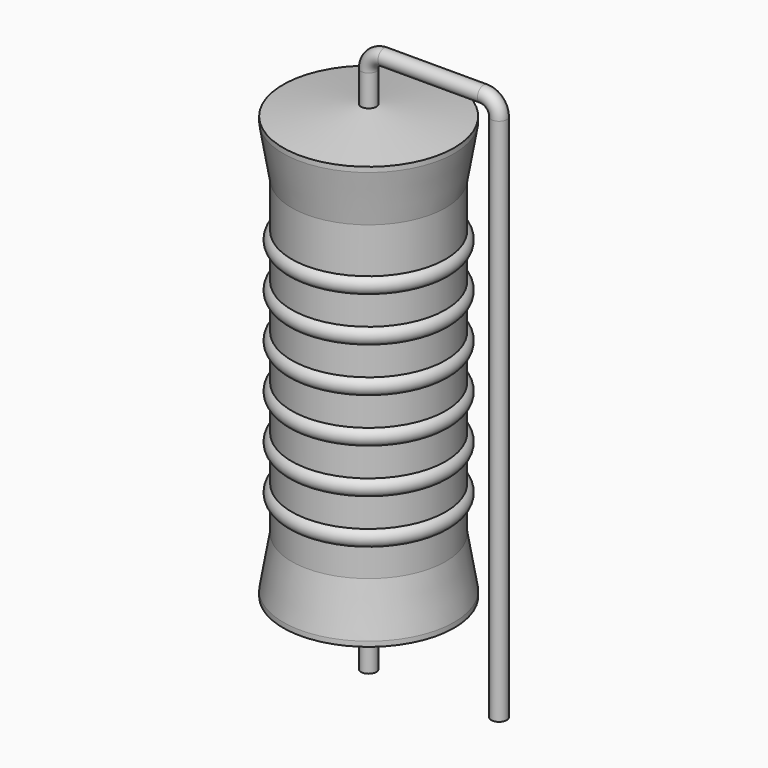
from build123d import *

# Parameters (mm, degrees)
SKETCH_R = 0.45


with BuildPart() as sweep_body:
    # Sweep: sweep along a path in Sketch001
    with BuildLine(Plane.XZ) as sweep_path:
        Line((0, -3), (0, 27.9))
        ThreePointArc((0, 27.9), (0.263601, 28.536393), (0.899991, 28.8))
        Line((0.899991, 28.8), (6.72, 28.8))
        ThreePointArc((6.72, 28.8), (7.356396, 28.536396), (7.62, 27.9))
        Line((7.62, 27.9), (7.62, -3))
    # Sketch → Sweep (sweep)
    with BuildSketch(Plane.XY.offset(-2)):
        Circle(SKETCH_R)
    sweep(path=sweep_path.line)


with BuildPart() as revolution:
    # Sketch002 → Revolution (revolve)
    with BuildSketch(Plane.XZ):
        Polygon((0, 0.1), (0, 26.1), (0.3375, 26.1), (5, 25.45), (5, 25.1575), (4.5, 22.2), (4.5, 4), (5, 1.0425), (5, 0.75), (0.3375, 0.1), align=None)
    revolve(axis=Axis((0, 0, 0), (0, 0, 1)))


with BuildPart() as revolution001:
    # Sketch003 → Revolution001 (revolve)
    with BuildSketch(Plane.XZ):
        with BuildLine():
            Line((4, 21.2), (4, 4))
            Line((4, 4), (4.3, 4))
            Line((4.3, 4), (4.3, 5.6))
            ThreePointArc((4.3, 5.6), (4.8, 6.1), (4.3, 6.6))
            Line((4.3, 6.6), (4.3, 8.2))
            ThreePointArc((4.3, 8.2), (4.8, 8.7), (4.3, 9.2))
            Line((4.3, 9.2), (4.3, 10.8))
            ThreePointArc((4.3, 10.8), (4.8, 11.3), (4.3, 11.8))
            Line((4.3, 11.8), (4.3, 13.4))
            ThreePointArc((4.3, 13.4), (4.8, 13.9), (4.3, 14.4))
            Line((4.3, 14.4), (4.3, 16))
            ThreePointArc((4.3, 16), (4.8, 16.5), (4.3, 17))
            Line((4.3, 17), (4.3, 18.6))
            ThreePointArc((4.3, 18.6), (4.8, 19.1), (4.3, 19.6))
            Line((4.3, 21.2), (4.3, 19.6))
            Line((4, 21.2), (4.3, 21.2))
        make_face()
    revolve(axis=Axis((0, 0, 0), (0, 0, 1)))


solid = Compound([sweep_body.part, revolution.part, revolution001.part])
